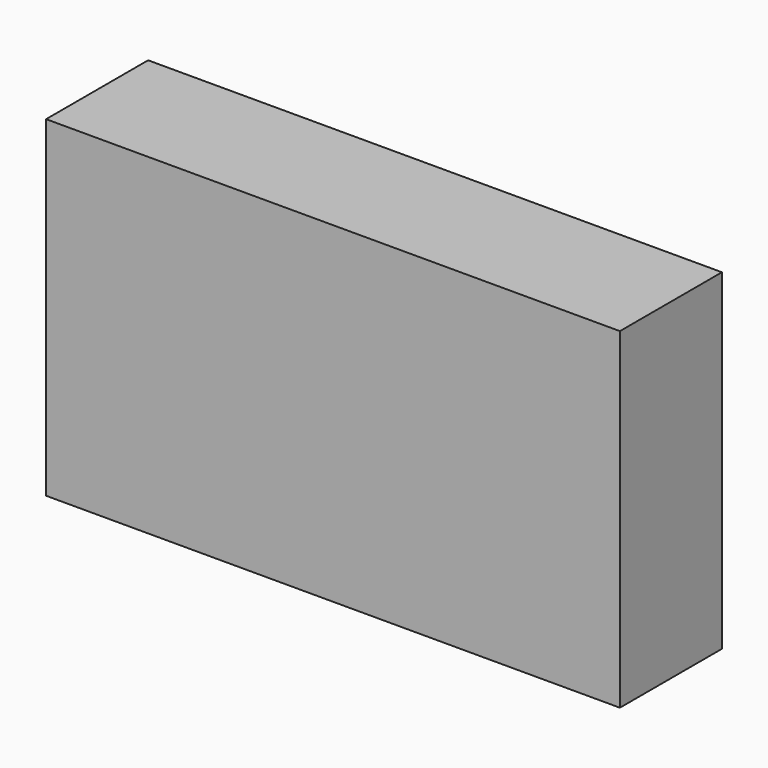
from build123d import *

# Parameters (mm, degrees)
F0_W     = 45
F0_H     = 10
F0_W_2   = 40
F0_H_2   = 5
F1_DEPTH = 25
F2_W     = 45
F2_H     = 10
F3_DEPTH = 1


with BuildPart() as f1:
    # F0 (on Top) → F1 (new body)
    with BuildSketch(Plane.XY):
        Rectangle(F0_W, F0_H)
        Rectangle(F0_W_2, F0_H_2, mode=Mode.SUBTRACT)
    extrude(amount=F1_DEPTH)

    # F2 (on face) → F3 (join)
    with BuildSketch(Plane.XY.offset(25)):
        Rectangle(F2_W, F2_H)
    extrude(amount=F3_DEPTH)


solid = f1.part
